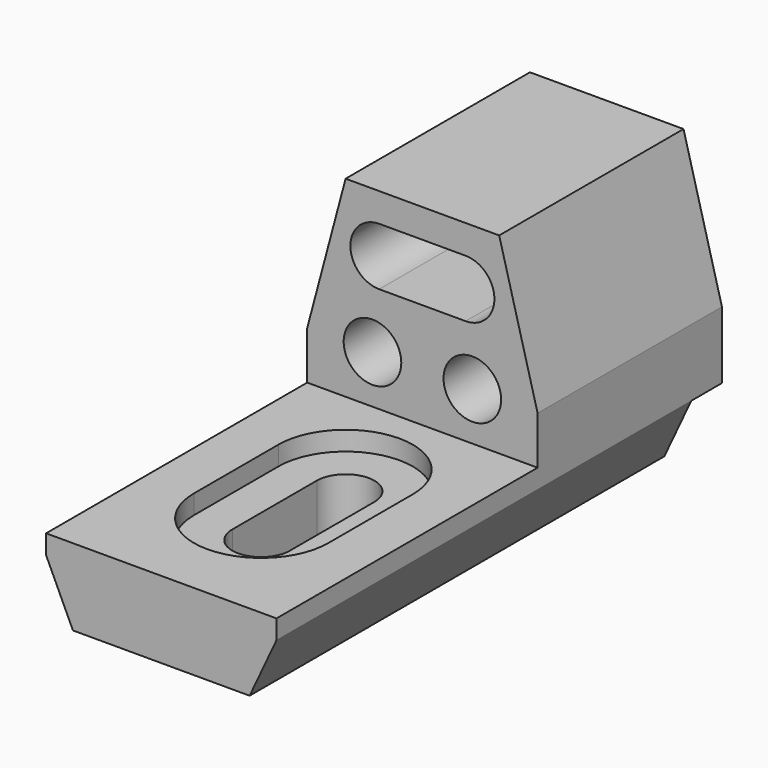
from build123d import *

# Parameters (mm, degrees)
SKETCH_W        = 120
SKETCH_H        = 290
PAD_DEPTH       = 140
SKETCH001_W     = 120
SKETCH001_H     = 170
POCKET_DEPTH    = 100
POCKET001_DEPTH = 120.001
SKETCH003_R     = 15
POCKET002_DEPTH = 120.001
POCKET003_DEPTH = 290.001
SKETCH005_W     = 120
SKETCH005_H     = 30
POCKET004_DEPTH = 20
POCKET005_DEPTH = 40.001
POCKET006_DEPTH = 10


with BuildPart() as part:
    # Sketch → Pad (new body)
    with BuildSketch(Plane.XY):
        Rectangle(SKETCH_W, SKETCH_H)
    extrude(amount=PAD_DEPTH)

    # Sketch001 → Pocket (cut)
    with BuildSketch(Plane.XY.offset(140)):
        with Locations((0, -60)):
            Rectangle(SKETCH001_W, SKETCH001_H)
    extrude(amount=-POCKET_DEPTH, mode=Mode.SUBTRACT)

    # Sketch002 → Pocket001 (cut, through all)
    with BuildSketch(Plane.XZ.offset(-25)):
        Polygon((40, 140), (60, 65), (60, 140), align=None)
        Polygon((-60, 65), (-40, 140), (-60, 140), align=None)
    extrude(amount=-POCKET001_DEPTH, mode=Mode.SUBTRACT)

    # Sketch003 → Pocket002 (cut, through all)
    with BuildSketch(Plane.XZ.offset(-25)):
        with Locations((-26, 65)):
            Circle(SKETCH003_R)
        with Locations((26, 65)):
            Circle(SKETCH003_R)
        with BuildLine():
            ThreePointArc((-22.499959, 125), (-37.5, 110.000021), (-22.5, 95))
            Line((-22.5, 95), (22.5, 95))
            ThreePointArc((22.5, 95), (37.5, 110.000021), (22.499959, 125))
            Line((-22.499959, 125), (22.499959, 125))
        make_face()
    extrude(amount=-POCKET002_DEPTH, mode=Mode.SUBTRACT)

    # Sketch004 → Pocket003 (cut, through all)
    with BuildSketch(Plane.XZ.offset(145)):
        Polygon((-60, 30), (-46.01077, 0), (-60, 0), align=None)
        Polygon((60, 30), (46.01077, 0), (60, 0), align=None)
    extrude(amount=-POCKET003_DEPTH, mode=Mode.SUBTRACT)

    # Sketch005 → Pocket004 (cut)
    with BuildSketch(Plane(origin=(0, 145, 0), x_dir=(-1, 0, 0), z_dir=(0, 1, 0))):
        with Locations((0, 15)):
            Rectangle(SKETCH005_W, SKETCH005_H)
    extrude(amount=-POCKET004_DEPTH, mode=Mode.SUBTRACT)

    # Sketch006 → Pocket005 (cut, through all)
    with BuildSketch(Plane.XY.offset(40)):
        with BuildLine():
            ThreePointArc((15, -24.999997), (-2.5e-05, -10), (-15, -25.000048))
            Line((-15, -80.000045), (-15, -25.000048))
            ThreePointArc((-15, -80.000045), (2.3e-05, -95), (15, -79.999998))
            Line((15, -24.999997), (15, -79.999998))
        make_face()
    extrude(amount=-POCKET005_DEPTH, mode=Mode.SUBTRACT)

    # Sketch007 → Pocket006 (cut)
    with BuildSketch(Plane.XY.offset(40)):
        with BuildLine():
            ThreePointArc((35, -25), (-2.1e-05, 10), (-35, -25.000043))
            Line((-35, -25.000043), (-35, -79.999957))
            ThreePointArc((-35, -79.999957), (-2.1e-05, -115), (35, -80))
            Line((35, -25), (35, -80))
        make_face()
    extrude(amount=-POCKET006_DEPTH, mode=Mode.SUBTRACT)


solid = part.part
